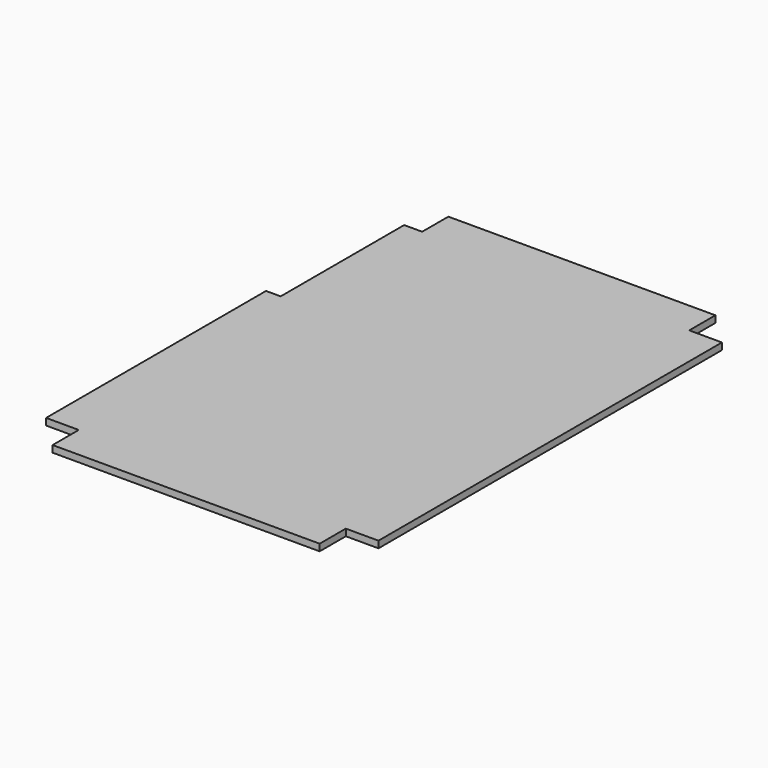
from build123d import *

# Parameters (mm, degrees)
F0_W     = 936.625
F0_H     = 1393.825
F1_DEPTH = 19.05
F2_W     = 92.075
F2_H     = 92.075
F3_DEPTH = 19.051
F4_W     = 41.275
F4_H     = 434.975
F5_DEPTH = 19.051


with BuildPart() as f1:
    # F0 (on Top) → F1 (new body)
    with BuildSketch(Plane.XY):
        Rectangle(F0_W, F0_H)
    extrude(amount=F1_DEPTH)

    # F2 (on face) → F3 (cut, through all)
    with BuildSketch(Plane.XY.offset(19.05)):
        with Locations((-422.275, 650.875)):
            Rectangle(F2_W, F2_H)
        with Locations((422.275, 650.875)):
            Rectangle(F2_W, F2_H)
        with Locations((422.275, -650.875)):
            Rectangle(F2_W, F2_H)
        with Locations((-422.275, -650.875)):
            Rectangle(F2_W, F2_H)
    extrude(amount=-F3_DEPTH, mode=Mode.SUBTRACT)

    # F4 (on face) → F5 (cut, through all)
    with BuildSketch(Plane.XY.offset(19.05)):
        with Locations((-447.675, 387.35)):
            Rectangle(F4_W, F4_H)
    extrude(amount=-F5_DEPTH, mode=Mode.SUBTRACT)


solid = f1.part
